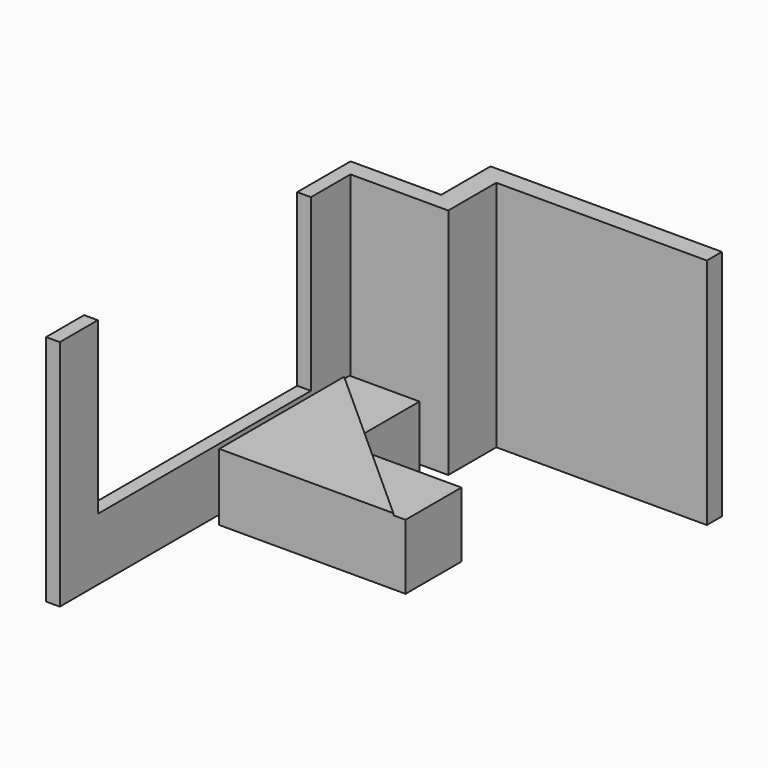
from build123d import *

# Parameters (mm, degrees)
F1_DEPTH = 2500
F2_W     = 2860
F2_H     = 1830
F3_DEPTH = 200
F4_W     = 750
F4_H     = 750
F5_DEPTH = 720
F6_DEPTH = 700


with BuildPart() as f1:
    # F0 (on Top) → F1 (new body)
    with BuildSketch(Plane.XY):
        Polygon((-147.2565531731, 0), (0, 0), (0, 3900), (1050, 3900), (1050, 4545), (3310, 4545), (3310, 4747.2367286682), (825.8602023125, 4747.2367286682), (825.8602023125, 4085.5174064636), (-147.2565531731, 4085.5174064636), align=None)
    extrude(amount=F1_DEPTH)

    # F2 (on face) → F3 (cut)
    with BuildSketch(Plane.YZ):
        with Locations((1940, 1585)):
            Rectangle(F2_W, F2_H)
    extrude(amount=-F3_DEPTH, mode=Mode.SUBTRACT)


with BuildPart() as f5:
    # F4 (on Top) → F5 (new body)
    with BuildSketch(Plane.XY):
        Polygon((1150.6690001684, 2742.1345710754), (867.9449260235, 2742.1345710754), (867.9449260235, 1992.1345710754), (1987.1300632173, 1992.1345710754), align=None)
        Polygon((1150.6690001684, 2742.1345710754), (867.9449260235, 2995.6347816361), (867.9449260235, 2742.1345710754), align=None)
        Polygon((867.9449260235, 2742.1345710754), (867.9449260235, 2995.6347816361), (117.9449260235, 3668.1107937887), (117.9449260235, 2742.1345710754), align=None)
        with Locations((492.9449260235, 2367.1345710754)):
            Rectangle(F4_W, F4_H)
    extrude(amount=F5_DEPTH)

    # F4 (on Top) → F6 (join)
    with BuildSketch(Plane.XY):
        Polygon((867.9449260235, 2995.6347816361), (867.9449260235, 3742.1345710754), (117.9449260235, 3742.1345710754), (117.9449260235, 3668.1107937887), align=None)
        Polygon((2117.9449260235, 2742.1345710754), (1150.6690001684, 2742.1345710754), (1987.1300632173, 1992.1345710754), (2117.9449260235, 1992.1345710754), align=None)
    extrude(amount=F6_DEPTH)


solid = Compound([f1.part, f5.part])
